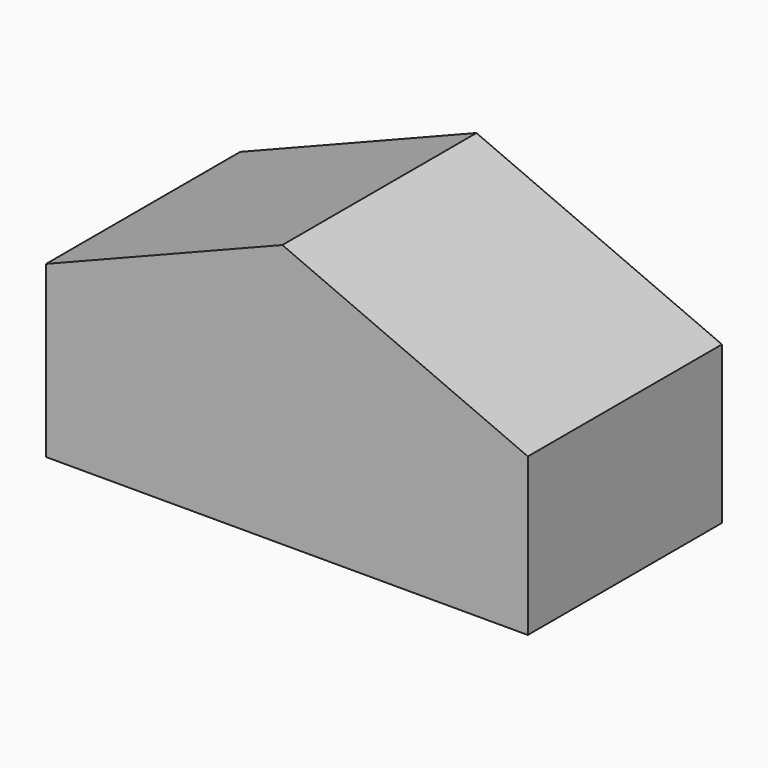
from build123d import *

# Parameters (mm, degrees)
F1_DEPTH = 111.76


with BuildPart() as f1:
    # F0 (on Front) → F1 (new body)
    with BuildSketch(Plane.XZ):
        Polygon((0, 44.7259859435), (-51.8159978092, 24.2315996438), (-108.8476730079, 1.6742962576), (-51.8159978092, -24.2315996438), (0, -44.7259859435), (51.8159978092, -24.2315996438), (113.0807995796, 0), (51.8159978092, 24.2315996438), align=None)
        Polygon((-108.8476730079, 1.6742962576), (-51.8159978092, 24.2315996438), (0, 44.7259859435), (0, 76.6572058201), (-108.8476730079, 33.6055161342), align=None)
        Polygon((-51.8159978092, -24.2315996438), (-108.8476730079, 1.6742962576), (-108.8476730079, -44.7259859435), (0, -44.7259859435), align=None)
        Polygon((0, 76.6572058201), (0, 44.7259859435), (51.8159978092, 24.2315996438), (113.0807995796, 0), (113.0807995796, 27.6919645567), align=None)
        Polygon((51.8159978092, -24.2315996438), (0, -44.7259859435), (113.0807995796, -44.7259859435), (113.0807995796, 0), align=None)
    extrude(amount=F1_DEPTH)


solid = f1.part
